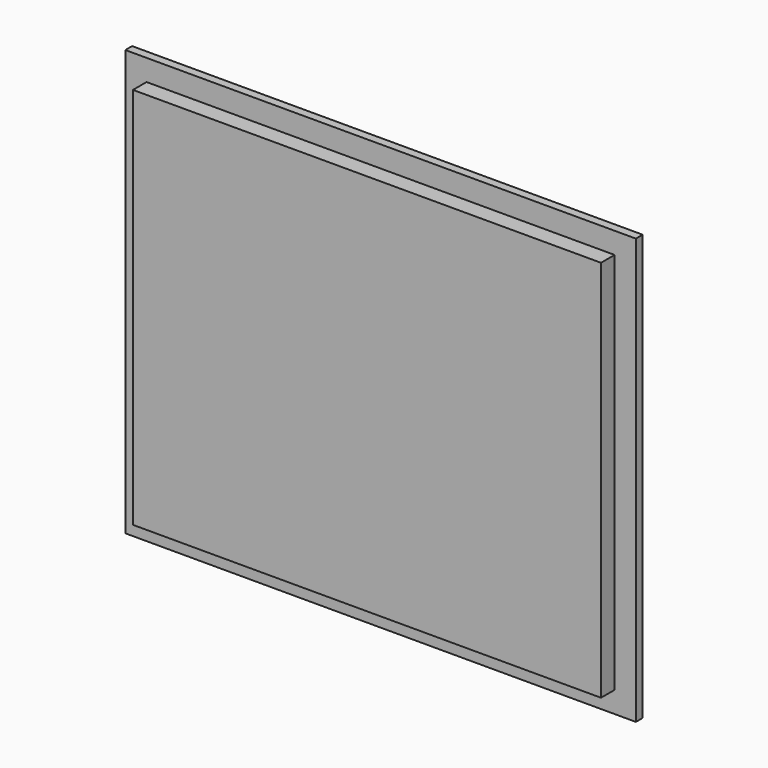
from build123d import *

# Parameters (mm, degrees)
F1_W     = 55
F1_H     = 45
F2_DEPTH = 3
F0_W     = 60
F0_H     = 50
F3_DEPTH = 1


with BuildPart() as f2:
    # F1 (on face) → F2 (new body)
    with BuildSketch(Plane.XZ):
        Rectangle(F1_W, F1_H)
    extrude(amount=F2_DEPTH)

    # F0 (on Front) → F3 (join)
    with BuildSketch(Plane.XZ):
        Rectangle(F0_W, F0_H)
    extrude(amount=F3_DEPTH)


solid = f2.part
